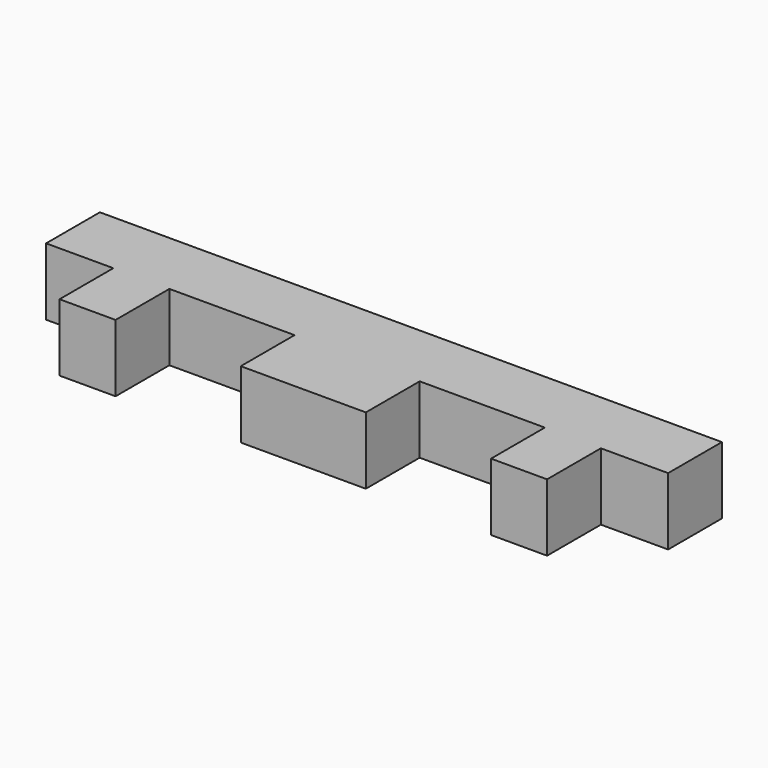
from build123d import *

# Parameters (mm, degrees)
F1_DEPTH = 7.62


with BuildPart() as f1:
    # F0 (on Top) → F1 (new body)
    with BuildSketch(Plane.XY):
        Polygon((70.485, 0), (0, 0), (0, -7.62), (7.62, -7.62), (7.62, -15.24), (13.97, -15.24), (13.97, -7.62), (28.1559, -7.62), (28.1559, -15.24), (42.3291, -15.24), (42.3291, -7.62), (56.515, -7.62), (56.515, -15.24), (62.865, -15.24), (62.865, -7.62), (70.485, -7.62), align=None)
    extrude(amount=F1_DEPTH)


solid = f1.part
